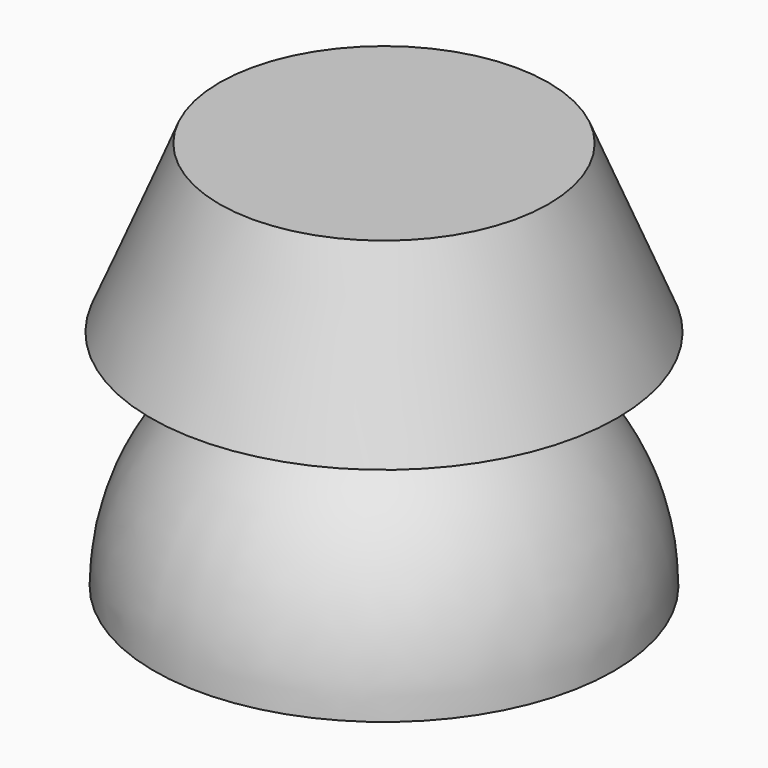
from build123d import *


with BuildPart() as f1:
    # F0 (on Front) → F1 (revolve)
    with BuildSketch(Plane.XZ):
        with BuildLine():
            Line((0, 51.658928), (-21.808516, 51.658928))
            Line((-21.808516, 51.658928), (-30.906977, 29.646527))
            Line((-30.906977, 29.646527), (-7.054858, 29.646527))
            ThreePointArc((-7.054858, 29.646527), (-23.913176, 18.89041), (-30.474376, 0))
            Line((-30.474376, 0), (0, 0))
            Line((0, 0), (0, 51.658928))
        make_face()
    revolve(axis=Axis((0, 0, 25.829464), (0, 0, -1)))


solid = f1.part
